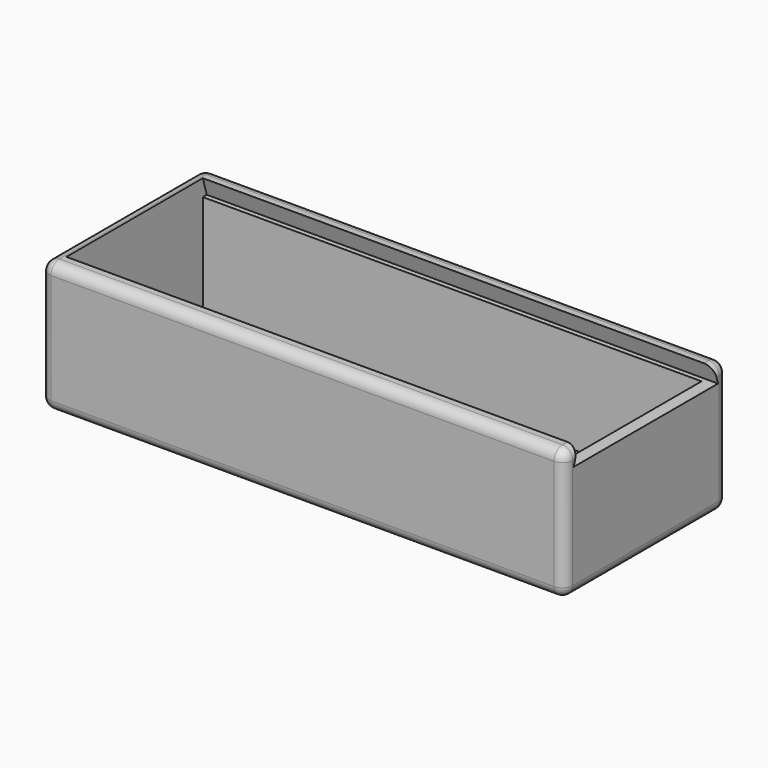
from build123d import *

# Parameters (mm, degrees)
F1_W     = 126
F1_H     = 49
F1_W_2   = 120
F1_H_2   = 41
F2_DEPTH = 3
F3_DEPTH = 28.5
F5_DEPTH = 123
F6_R     = 2.5


with BuildPart() as f2:
    # F1 (on Top) → F2 (new body)
    with BuildSketch(Plane.XY):
        with Locations((0.1302100548, -8.2819438625)):
            Rectangle(F1_W, F1_H)
        with Locations((0.1302100548, -8.2819438625)):
            Rectangle(F1_W_2, F1_H_2, mode=Mode.SUBTRACT)
        with Locations((0.1302100548, -8.2819438625)):
            Rectangle(F1_W_2, F1_H_2)
    extrude(amount=-F2_DEPTH)

    # F1 (on Top) → F3 (join)
    with BuildSketch(Plane.XY):
        with Locations((0.1302100548, -8.2819438625)):
            Rectangle(F1_W, F1_H)
        with Locations((0.1302100548, -8.2819438625)):
            Rectangle(F1_W_2, F1_H_2, mode=Mode.SUBTRACT)
    extrude(amount=F3_DEPTH)

    # F4 (on face) → F5 (cut)
    with BuildSketch(Plane.YZ.offset(63.1302100548)):
        Polygon((12.2180561375, 28.5), (-28.7819438625, 28.5), (-29.9819438625, 24.5), (-28.7819438625, 24.5), (12.2180561375, 24.5), (13.4180561375, 24.5), align=None)
    extrude(amount=-F5_DEPTH, mode=Mode.SUBTRACT)

    # F6
    f6_edges = [f2.edges().sort_by_distance(p)[0] for p in [
        (63.13021, -32.781944, 12.75),
        (63.13021, 16.218056, 12.75),
        (-62.86979, -32.781944, 12.75),
        (-62.86979, 16.218056, 12.75),
        (0.13021, 16.218056, -3),
        (63.13021, -8.281944, -3),
        (0.13021, -32.781944, -3),
        (-62.86979, -8.281944, -3),
        (0.13021, -32.781944, 28.5),
        (-62.86979, -8.281944, 28.5),
        (0.13021, 16.218056, 28.5),
        (63.13021, 14.218056, 28.5),
        (63.13021, -30.781944, 28.5),
    ]]
    fillet(f6_edges, radius=F6_R)


solid = f2.part
